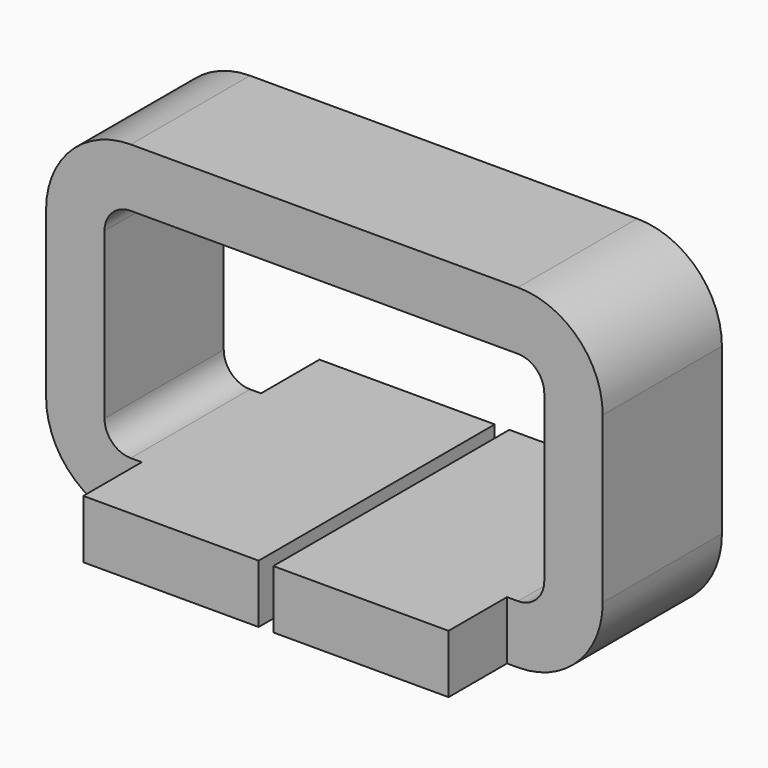
from build123d import *

# Parameters (mm, degrees)
PAD_DEPTH    = 1.01
POCKET_DEPTH = 0.5


with BuildPart() as part:
    # Sketch → Pad (new body, symmetric)
    with BuildSketch(Plane.XZ):
        with BuildLine():
            Line((0.05, 0), (1.325, 0))
            ThreePointArc((1.325, 0), (1.735122, 0.169878), (1.905, 0.58))
            Line((1.905, 0.58), (1.905, 1.71))
            ThreePointArc((1.905, 1.71), (1.735122, 2.120122), (1.325, 2.29))
            Line((1.325, 2.29), (0, 2.29))
            Line((0, 2.29), (0, 1.89))
            Line((0, 1.89), (1.325, 1.89))
            ThreePointArc((1.505, 1.71), (1.452279, 1.837279), (1.325, 1.89))
            Line((1.505, 1.71), (1.505, 0.58))
            ThreePointArc((1.325, 0.4), (1.452279, 0.452721), (1.505, 0.58))
            Line((1.325, 0.4), (0.05, 0.4))
            Line((0.05, 0.4), (0.05, 0))
        make_face()
    pad = extrude(amount=PAD_DEPTH, both=True)

    # Mirrored: Pad across Sketch V_Axis
    add(pad.mirror(Plane(origin=(0, 0, 0), x_dir=(0, -1, 0), z_dir=(1, 0, 0))))

    # Sketch001 (on Face5 of Mirrored) → Pocket (cut)
    with BuildSketch(Plane.XZ.offset(1.01)):
        Polygon((1.25, -0.501321), (1.25, 0.766681), (-1.25, 0.766681), (-1.25, -0.501321), (-2.34865, -0.501321), (-2.34865, 2.758472), (2.34865, 2.758472), (2.34865, -0.501321), align=None)
    pocket = extrude(amount=-POCKET_DEPTH, mode=Mode.SUBTRACT)

    # Mirrored001: Pocket across XZ
    add(pocket.mirror(Plane.XZ), mode=Mode.SUBTRACT)


solid = part.part
